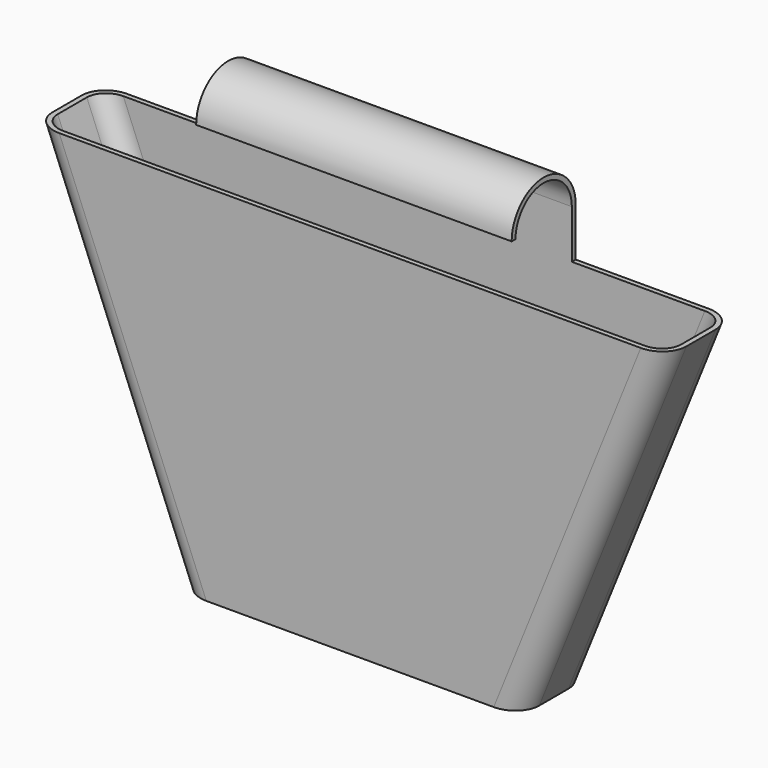
from build123d import *

# Parameters (mm, degrees)
F1_DEPTH = 4.445
F2_R     = 2.54
F3_T     = -0.508
F6_DEPTH = 16.51


with BuildPart() as f1:
    # F0 (on Front) → F1 (new body, symmetric)
    with BuildSketch(Plane.XZ):
        Polygon((17.78, -38.1), (33.173399, 0), (-33.173399, 0), (-17.78, -38.1), align=None)
    extrude(amount=F1_DEPTH, both=True)

    # F2
    f2_edges = [f1.edges().sort_by_distance(p)[0] for p in [
        (25.4767, 4.445, -19.05),
        (25.4767, -4.445, -19.05),
        (-25.4767, 4.445, -19.05),
        (-25.4767, -4.445, -19.05),
    ]]
    fillet(f2_edges, radius=F2_R)

    # F3
    f3_openings = [f1.faces().sort_by_distance(p)[0] for p in [
        (0, 0, 0),
        (0, 0, -38.1),
    ]]
    offset(amount=F3_T, openings=f3_openings)

    # F5 (on Right) → F6 (join, symmetric)
    with BuildSketch(Plane.YZ):
        with BuildLine():
            Line((3.937, 0), (4.445, 0))
            Line((4.445, 0), (4.445, 5.08))
            ThreePointArc((4.445, 5.08), (0.254, 9.271), (-3.937, 5.08))
            Line((-3.937, 5.08), (-3.429, 5.08))
            ThreePointArc((-3.429, 5.08), (0.254, 8.763), (3.937, 5.08))
            Line((3.937, 5.08), (3.937, 0))
        make_face()
    extrude(amount=F6_DEPTH, both=True)


solid = f1.part
